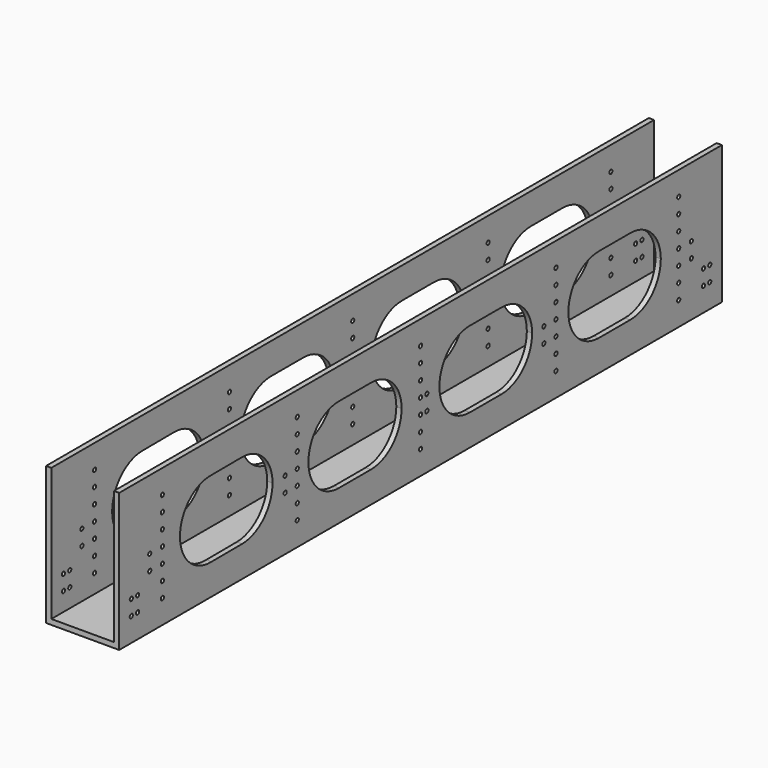
from build123d import *

# Parameters (mm, degrees)
F0_W     = 572
F0_H     = 105
F0_R     = 1.5
F1_DEPTH = 55.5
F2_W     = 47.5
F2_H     = 101
F3_DEPTH = 577


with BuildPart() as f1:
    # F0 (on Right) → F1 (new body)
    with BuildSketch(Plane.YZ):
        Rectangle(F0_W, F0_H)
        with Locations((-274.5, -34.5)):
            Circle(F0_R, mode=Mode.SUBTRACT)
        with Locations((-268.5, -34.5)):
            Circle(F0_R, mode=Mode.SUBTRACT)
        with Locations((-245, -34.5)):
            Circle(F0_R, mode=Mode.SUBTRACT)
        with Locations((-117, -34.5)):
            Circle(F0_R, mode=Mode.SUBTRACT)
        with Locations((-274.5, -23)):
            Circle(F0_R, mode=Mode.SUBTRACT)
        with Locations((-268.5, -23)):
            Circle(F0_R, mode=Mode.SUBTRACT)
        with Locations((-245, -23)):
            Circle(F0_R, mode=Mode.SUBTRACT)
        with Locations((-257, -11.5)):
            Circle(F0_R, mode=Mode.SUBTRACT)
        with Locations((-245, -11.5)):
            Circle(F0_R, mode=Mode.SUBTRACT)
        with BuildLine():
            ThreePointArc((-198.353274, -29.138487), (-228.300431, -0.153959), (-198.353274, 28.83057))
            Line((-198.353274, 28.83057), (-169.670794, 28.999497))
            ThreePointArc((-169.670794, 28.999497), (-149.054377, 20.566393), (-140.5, 0))
            ThreePointArc((-140.5, 0), (-148.944869, -20.456945), (-169.361144, -28.999668))
            Line((-169.361144, -28.999668), (-198.353274, -29.138487))
        make_face(mode=Mode.SUBTRACT)
        with Locations((-117, -23)):
            Circle(F0_R, mode=Mode.SUBTRACT)
        with Locations((-128.5, -11.5)):
            Circle(F0_R, mode=Mode.SUBTRACT)
        with Locations((-117, -11.5)):
            Circle(F0_R, mode=Mode.SUBTRACT)
        with Locations((0, -34.5)):
            Circle(F0_R, mode=Mode.SUBTRACT)
        with Locations((128.5, -34.5)):
            Circle(F0_R, mode=Mode.SUBTRACT)
        with Locations((245, -34.5)):
            Circle(F0_R, mode=Mode.SUBTRACT)
        with Locations((268.5, -34.5)):
            Circle(F0_R, mode=Mode.SUBTRACT)
        with Locations((274.5, -34.5)):
            Circle(F0_R, mode=Mode.SUBTRACT)
        with Locations((0, -23)):
            Circle(F0_R, mode=Mode.SUBTRACT)
        with Locations((128.5, -23)):
            Circle(F0_R, mode=Mode.SUBTRACT)
        with Locations((0, -11.5)):
            Circle(F0_R, mode=Mode.SUBTRACT)
        with Locations((6, -11.5)):
            Circle(F0_R, mode=Mode.SUBTRACT)
        with Locations((117, -11.5)):
            Circle(F0_R, mode=Mode.SUBTRACT)
        with Locations((128.5, -11.5)):
            Circle(F0_R, mode=Mode.SUBTRACT)
        with Locations((245, -23)):
            Circle(F0_R, mode=Mode.SUBTRACT)
        with Locations((268.5, -23)):
            Circle(F0_R, mode=Mode.SUBTRACT)
        with Locations((274.5, -23)):
            Circle(F0_R, mode=Mode.SUBTRACT)
        with Locations((245, -11.5)):
            Circle(F0_R, mode=Mode.SUBTRACT)
        with Locations((257, -11.5)):
            Circle(F0_R, mode=Mode.SUBTRACT)
        with Locations((-257, 0)):
            Circle(F0_R, mode=Mode.SUBTRACT)
        with Locations((-245, 0)):
            Circle(F0_R, mode=Mode.SUBTRACT)
        with Locations((-245, 11.5)):
            Circle(F0_R, mode=Mode.SUBTRACT)
        with Locations((-245, 23)):
            Circle(F0_R, mode=Mode.SUBTRACT)
        with Locations((-128.5, 0)):
            Circle(F0_R, mode=Mode.SUBTRACT)
        with Locations((-117, 0)):
            Circle(F0_R, mode=Mode.SUBTRACT)
        with Locations((-117, 11.5)):
            Circle(F0_R, mode=Mode.SUBTRACT)
        with BuildLine():
            ThreePointArc((-77.405164, -29), (-106.405646, 0), (-77.405164, 29))
            Line((-77.405164, 29), (-47.170794, 28.999497))
            ThreePointArc((-47.170794, 28.999497), (-26.554377, 20.566393), (-18, 0))
            ThreePointArc((-18, 0), (-26.554377, -20.566393), (-47.170794, -28.999497))
            Line((-47.170794, -28.999497), (-77.405164, -29))
        make_face(mode=Mode.SUBTRACT)
        with Locations((-117, 23)):
            Circle(F0_R, mode=Mode.SUBTRACT)
        with Locations((-245, 34.5)):
            Circle(F0_R, mode=Mode.SUBTRACT)
        with Locations((-117, 34.5)):
            Circle(F0_R, mode=Mode.SUBTRACT)
        Circle(F0_R, mode=Mode.SUBTRACT)
        with Locations((6, 0)):
            Circle(F0_R, mode=Mode.SUBTRACT)
        with BuildLine():
            ThreePointArc((46.724594, -28.999497), (17.895389, 0), (46.724594, 28.999497))
            ThreePointArc((46.724594, 28.999497), (46.894905, 29), (47.065215, 28.999503))
            Line((47.065215, 28.999503), (76.859168, 29))
            ThreePointArc((76.859168, 29), (97.365577, 20.506267), (105.85965, 0))
            ThreePointArc((105.85965, 0), (97.365577, -20.506267), (76.859168, -29))
            Line((76.859168, -29), (47.065215, -28.999503))
            ThreePointArc((47.065215, -28.999503), (46.894905, -29), (46.724594, -28.999497))
        make_face(mode=Mode.SUBTRACT)
        with Locations((0, 11.5)):
            Circle(F0_R, mode=Mode.SUBTRACT)
        with Locations((117, 0)):
            Circle(F0_R, mode=Mode.SUBTRACT)
        with Locations((128.5, 0)):
            Circle(F0_R, mode=Mode.SUBTRACT)
        with Locations((128.5, 11.5)):
            Circle(F0_R, mode=Mode.SUBTRACT)
        with Locations((0, 23)):
            Circle(F0_R, mode=Mode.SUBTRACT)
        with Locations((128.5, 23)):
            Circle(F0_R, mode=Mode.SUBTRACT)
        with BuildLine():
            ThreePointArc((198.829206, 28.999497), (219.445623, 20.566393), (228, 0))
            ThreePointArc((228, 0), (219.445623, -20.566393), (198.829206, -28.999497))
            Line((198.829206, -28.999497), (169.308764, -29))
            ThreePointArc((169.308764, -29), (140.308282, 0), (169.308764, 29))
            Line((169.308764, 29), (198.829206, 28.999497))
        make_face(mode=Mode.SUBTRACT)
        with Locations((245, 0)):
            Circle(F0_R, mode=Mode.SUBTRACT)
        with Locations((257, 0)):
            Circle(F0_R, mode=Mode.SUBTRACT)
        with Locations((245, 11.5)):
            Circle(F0_R, mode=Mode.SUBTRACT)
        with Locations((245, 23)):
            Circle(F0_R, mode=Mode.SUBTRACT)
        with Locations((0, 34.5)):
            Circle(F0_R, mode=Mode.SUBTRACT)
        with Locations((128.5, 34.5)):
            Circle(F0_R, mode=Mode.SUBTRACT)
        with Locations((245, 34.5)):
            Circle(F0_R, mode=Mode.SUBTRACT)
    extrude(amount=-F1_DEPTH)

    # F2 (on face) → F3 (cut)
    with BuildSketch(Plane(origin=(0, 286, 0), x_dir=(-1, 0, 0), z_dir=(0, 1, 0))):
        with Locations((27.75, 2)):
            Rectangle(F2_W, F2_H)
    extrude(amount=-F3_DEPTH, mode=Mode.SUBTRACT)


solid = f1.part
